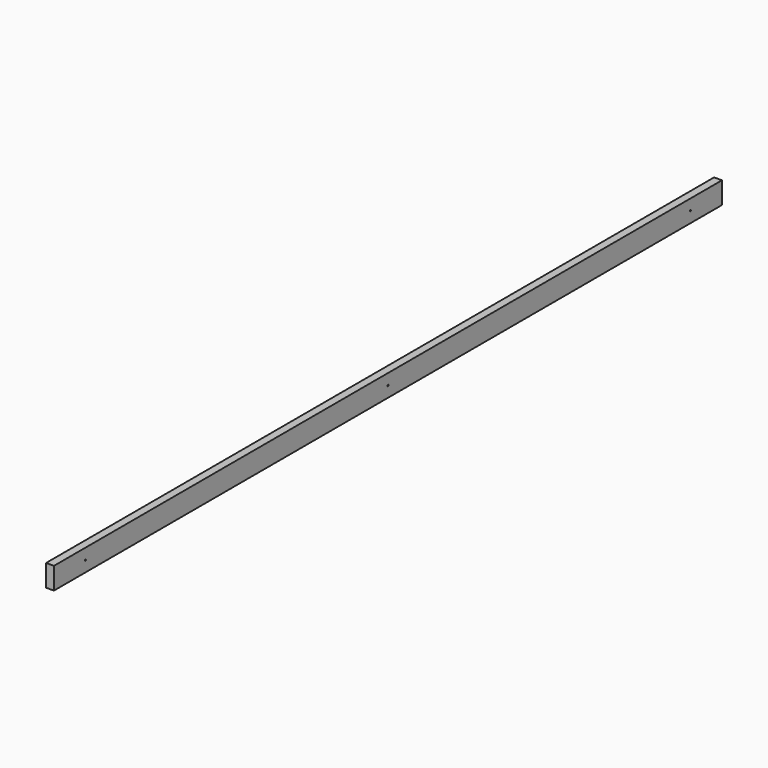
from build123d import *

# Parameters (mm, degrees)
F0_W     = 63
F0_H     = 175
F1_DEPTH = 3350
F2_R     = 5.25
F3_DEPTH = 63.001


with BuildPart() as f1:
    # F0 (on Front) → F1 (new body, symmetric)
    with BuildSketch(Plane.XZ):
        Rectangle(F0_W, F0_H)
    extrude(amount=F1_DEPTH, both=True)

    # F2 (on face) → F3 (cut, through all)
    with BuildSketch(Plane.YZ.offset(31.5)):
        with Locations((-3034, 0)):
            Circle(F2_R)
        with Locations((3034, 0)):
            Circle(F2_R)
        Circle(F2_R)
    extrude(amount=-F3_DEPTH, mode=Mode.SUBTRACT)


solid = f1.part
